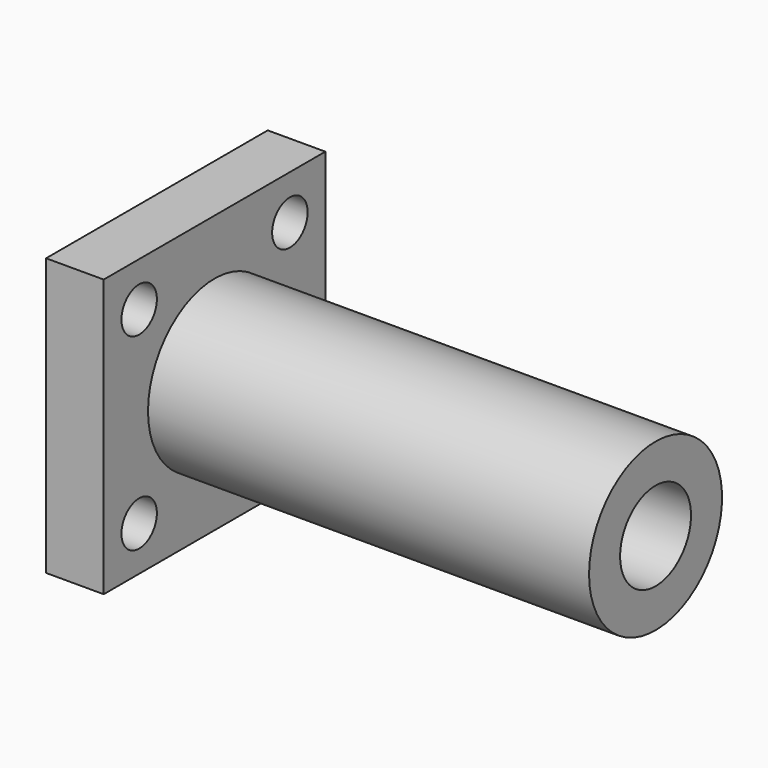
from build123d import *

# Parameters (mm, degrees)
CYLINDER043_R          = 2
CYLINDER043_DEPTH      = 10
CYLINDER044_R          = 2
CYLINDER044_DEPTH      = 10
CYLINDER042_R          = 2
CYLINDER042_DEPTH      = 10
CYLINDER041_R          = 2
CYLINDER041_DEPTH      = 10
CYLINDER040_R          = 4
CYLINDER040_DEPTH      = 60
CYLINDER045_R          = 7.5
CYLINDER045_DEPTH      = 40
BOX008_W               = 25
BOX008_H               = 25
BOX008_DEPTH           = 5.2
CUT038_ROLL_ANGLE      = -90
CUT038_PLACEMENT_ANGLE = -90


with BuildPart() as cylinder043:
    # Cylinder043 → Cylinder043 (new body)
    with BuildSketch(Plane(origin=(21, 21, -2), x_dir=(1, 0, 0), z_dir=(0, 0, 1))):
        Circle(CYLINDER043_R)
    extrude(amount=CYLINDER043_DEPTH)


with BuildPart() as cylinder044:
    # Cylinder044 → Cylinder044 (new body)
    with BuildSketch(Plane(origin=(21, 4, -2), x_dir=(1, 0, 0), z_dir=(0, 0, 1))):
        Circle(CYLINDER044_R)
    extrude(amount=CYLINDER044_DEPTH)


with BuildPart() as cylinder042:
    # Cylinder042 → Cylinder042 (new body)
    with BuildSketch(Plane(origin=(4, 21, -2), x_dir=(1, 0, 0), z_dir=(0, 0, 1))):
        Circle(CYLINDER042_R)
    extrude(amount=CYLINDER042_DEPTH)


with BuildPart() as cylinder041:
    # Cylinder041 → Cylinder041 (new body)
    with BuildSketch(Plane(origin=(4, 4, -2), x_dir=(1, 0, 0), z_dir=(0, 0, 1))):
        Circle(CYLINDER041_R)
    extrude(amount=CYLINDER041_DEPTH)


with BuildPart() as cylinder040:
    # Cylinder040 → Cylinder040 (new body)
    with BuildSketch(Plane(origin=(12.5, 12.5, -7), x_dir=(1, 0, 0), z_dir=(0, 0, 1))):
        Circle(CYLINDER040_R)
    extrude(amount=CYLINDER040_DEPTH)


with BuildPart() as cylinder045:
    # Cylinder045 → Cylinder045 (new body)
    with BuildSketch(Plane(origin=(12.5, 12.5, 5), x_dir=(1, 0, 0), z_dir=(0, 0, 1))):
        Circle(CYLINDER045_R)
    extrude(amount=CYLINDER045_DEPTH)


with BuildPart() as cut038:
    # Box008 → Box008 (new body)
    with BuildSketch(Plane.XY):
        with Locations((12.5, 12.5)):
            Rectangle(BOX008_W, BOX008_H)
    extrude(amount=BOX008_DEPTH)

    # Fusion009: union Cylinder045
    add(cylinder045.part)

    # Cut037: cut Cylinder040
    add(cylinder040.part, mode=Mode.SUBTRACT)

    # Cut036: cut Cylinder041
    add(cylinder041.part, mode=Mode.SUBTRACT)

    # Cut035: cut Cylinder042
    add(cylinder042.part, mode=Mode.SUBTRACT)

    # Cut034: cut Cylinder044
    add(cylinder044.part, mode=Mode.SUBTRACT)

    # Cut038: cut Cylinder043
    add(cylinder043.part, mode=Mode.SUBTRACT)


with BuildPart() as cut038_1:
    # Cut038 roll: moved
    add(cut038.part.rotate(Axis((0, 0, 0), (1, 0, 0)), CUT038_ROLL_ANGLE))


with BuildPart() as cut038_2:
    # Cut038 placement: moved
    add(cut038_1.part.moved(Location((94, 37.5, 72.5))).rotate(Axis((94, 37.5, 72.5), (0, 0, 1)), CUT038_PLACEMENT_ANGLE))


solid = cut038_2.part
